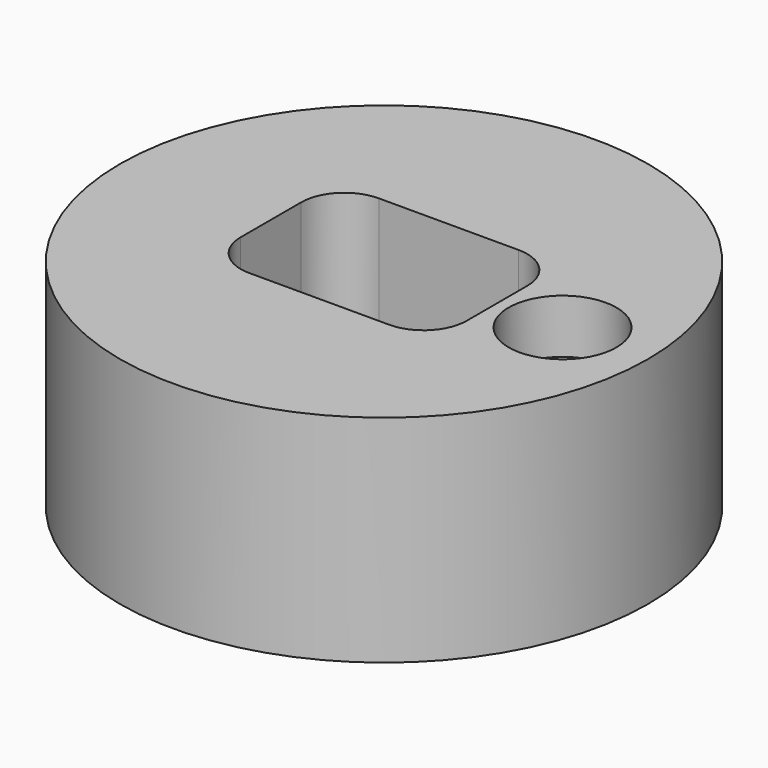
from build123d import *

# Parameters (mm, degrees)
F0_R           = 31.109261
F1_DEPTH       = 25.4
F2_W           = 26.62818
F2_H           = 19.062922
F3_DEPTH       = 25.4
F4_R           = 5.08
F6_D           = 6.35
F6_CBORE_D     = 12.7
F6_CBORE_DEPTH = 6.35


with BuildPart() as f1:
    # F0 (on Top) → F1 (new body)
    with BuildSketch(Plane.XY):
        Circle(F0_R)
    extrude(amount=F1_DEPTH)

    # F2 (on face) → F3 (cut)
    with BuildSketch(Plane.XY.offset(25.4)):
        Rectangle(F2_W, F2_H)
    extrude(amount=-F3_DEPTH, mode=Mode.SUBTRACT)

    # F4
    f4_edges = [f1.edges().sort_by_distance(p)[0] for p in [
        (-13.31409, 9.531461, 12.7),
        (-13.31409, -9.531461, 12.7),
        (13.31409, 9.531461, 12.7),
        (13.31409, -9.531461, 12.7),
    ]]
    fillet(f4_edges, radius=F4_R)

    # F6 (through all)
    with Locations(Plane.XY.offset(25.4)):
        with Locations((21.028863, 0)):
            CounterBoreHole(F6_D / 2, F6_CBORE_D / 2, F6_CBORE_DEPTH)


solid = f1.part
